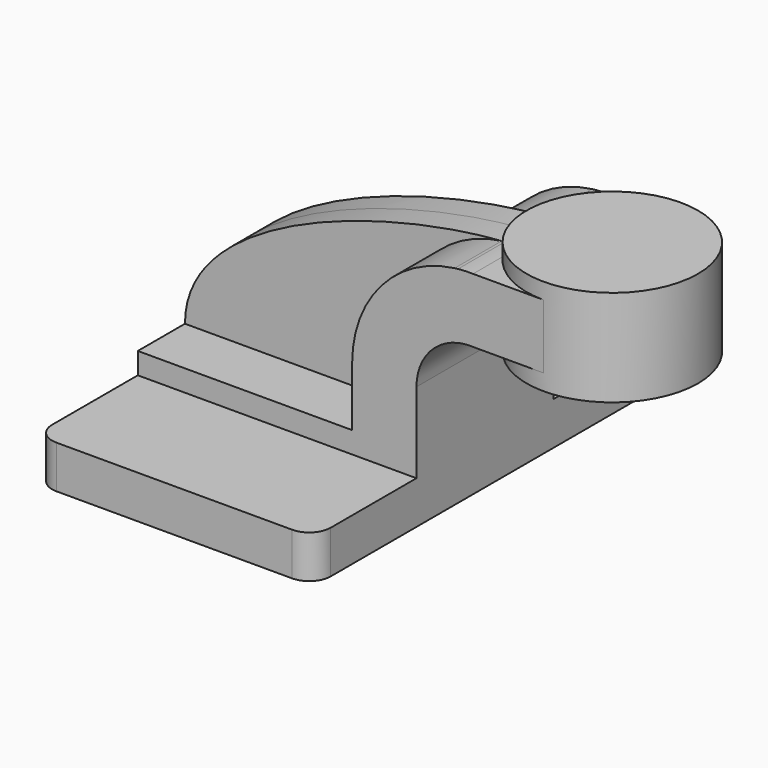
from build123d import *

# Parameters (mm, degrees)
F0_W     = 82.55
F0_H     = 12.7
F1_DEPTH = 63.5
F2_DEPTH = 25.4
F3_DEPTH = 7.9375
F5_R     = 6.35


with BuildPart() as f1:
    # F0 (on Front) → F1 (new body, symmetric)
    with BuildSketch(Plane.XZ):
        with Locations((0, -3.175)):
            Rectangle(F0_W, F0_H)
    extrude(amount=F1_DEPTH, both=True)

    # F0 (on Front) → F2 (join, symmetric)
    with BuildSketch(Plane.XZ):
        with Locations((0, -3.175)):
            Rectangle(F0_W, F0_H)
        with BuildLine():
            ThreePointArc((53.577404361, 61.7532924078), (53.0857792806, 61.6992166922), (52.5949692711, 61.6381844286))
            add(Edge.make_bspline(
                [(52.5949692711, 61.6381844286), (52.9244758312, 61.6627898631), (53.2519761831, 61.6860233314), (53.577404361, 61.7078821692)],
                knots=[106.6137732969, 106.6137732969, 106.6137732969, 106.6137732969, 107.6063471029, 107.6063471029, 107.6063471029, 107.6063471029], degree=3))
            Line((53.577404361, 61.7078821692), (53.577404361, 61.7532924078))
        make_face()
        Polygon((22.225, 9.525), (-41.275, 9.525), (-41.275, 3.175), (41.275, 3.175), (41.275, 9.525), align=None)
        with BuildLine():
            ThreePointArc((58.0383306755, 61.9252), (55.8051179778, 61.9105955677), (53.577404361, 61.7532924078))
            Line((53.577404361, 61.7532924078), (53.577404361, 61.7078821692))
            add(Edge.make_bspline(
                [(53.577404361, 61.7078821692), (55.1128174226, 61.8110150488), (56.602102301, 61.8835475984), (58.0383306755, 61.9252)],
                knots=[107.6063471029, 107.6063471029, 107.6063471029, 107.6063471029, 112.2894412218, 112.2894412218, 112.2894412218, 112.2894412218], degree=3))
        make_face()
        with BuildLine():
            Line((22.225, 27.0114993424), (22.225, 9.525))
            Line((22.225, 9.525), (41.275, 9.525))
            Line((41.275, 9.525), (41.275, 27.0114993424))
            ThreePointArc((41.275, 27.0114993424), (44.7256171025, 36.8933177284), (53.577404361, 42.4792782844))
            Line((53.577404361, 42.4792782844), (53.577404361, 61.7078821692))
            add(Edge.make_bspline(
                [(52.5949692711, 61.6381844286), (52.9244758312, 61.6627898631), (53.2519761831, 61.6860233314), (53.577404361, 61.7078821692)],
                knots=[106.6137732969, 106.6137732969, 106.6137732969, 106.6137732969, 107.6063471029, 107.6063471029, 107.6063471029, 107.6063471029], degree=3))
            ThreePointArc((52.5949692711, 61.6381844286), (30.8931906622, 50.0405155696), (22.225, 27.0114993424))
        make_face()
        with BuildLine():
            add(Edge.make_bspline(
                [(53.577404361, 61.7078821692), (55.1128174226, 61.8110150488), (56.602102301, 61.8835475984), (58.0383306755, 61.9252)],
                knots=[107.6063471029, 107.6063471029, 107.6063471029, 107.6063471029, 112.2894412218, 112.2894412218, 112.2894412218, 112.2894412218], degree=3))
            Line((53.577404361, 61.7078821692), (53.577404361, 42.4792782844))
            ThreePointArc((53.577404361, 42.4792782844), (55.6500090256, 42.8154751737), (57.7488542769, 42.8752))
            Line((57.7488542769, 42.8752), (78.977404361, 42.8752))
            Line((78.977404361, 42.8752), (78.977404361, 61.9252))
            Line((78.977404361, 61.9252), (58.0383306755, 61.9252))
        make_face()
    extrude(amount=F2_DEPTH, both=True)

    # F0 (on Front) → F3 (join, symmetric)
    with BuildSketch(Plane.XZ):
        with Locations((0, -3.175)):
            Rectangle(F0_W, F0_H)
        with BuildLine():
            add(Edge.make_bspline(
                [(-41.275, 9.525), (-41.3366305688, 40.5237040654), (17.2021979841, 58.9952794856), (52.5949692711, 61.6381844286)],
                knots=[0, 0, 0, 0, 106.6137732969, 106.6137732969, 106.6137732969, 106.6137732969], degree=3))
            Line((-41.275, 9.525), (22.225, 9.525))
            Line((22.225, 9.525), (22.225, 27.0114993424))
            ThreePointArc((22.225, 27.0114993424), (30.8931906622, 50.0405155696), (52.5949692711, 61.6381844286))
        make_face()
        with BuildLine():
            ThreePointArc((53.577404361, 61.7532924078), (53.0857792806, 61.6992166922), (52.5949692711, 61.6381844286))
            add(Edge.make_bspline(
                [(52.5949692711, 61.6381844286), (52.9244758312, 61.6627898631), (53.2519761831, 61.6860233314), (53.577404361, 61.7078821692)],
                knots=[106.6137732969, 106.6137732969, 106.6137732969, 106.6137732969, 107.6063471029, 107.6063471029, 107.6063471029, 107.6063471029], degree=3))
            Line((53.577404361, 61.7078821692), (53.577404361, 61.7532924078))
        make_face()
        Polygon((22.225, 9.525), (-41.275, 9.525), (-41.275, 3.175), (41.275, 3.175), (41.275, 9.525), align=None)
        with BuildLine():
            ThreePointArc((58.0383306755, 61.9252), (55.8051179778, 61.9105955677), (53.577404361, 61.7532924078))
            Line((53.577404361, 61.7532924078), (53.577404361, 61.7078821692))
            add(Edge.make_bspline(
                [(53.577404361, 61.7078821692), (55.1128174226, 61.8110150488), (56.602102301, 61.8835475984), (58.0383306755, 61.9252)],
                knots=[107.6063471029, 107.6063471029, 107.6063471029, 107.6063471029, 112.2894412218, 112.2894412218, 112.2894412218, 112.2894412218], degree=3))
        make_face()
        with BuildLine():
            Line((22.225, 27.0114993424), (22.225, 9.525))
            Line((22.225, 9.525), (41.275, 9.525))
            Line((41.275, 9.525), (41.275, 27.0114993424))
            ThreePointArc((41.275, 27.0114993424), (44.7256171025, 36.8933177284), (53.577404361, 42.4792782844))
            Line((53.577404361, 42.4792782844), (53.577404361, 61.7078821692))
            add(Edge.make_bspline(
                [(52.5949692711, 61.6381844286), (52.9244758312, 61.6627898631), (53.2519761831, 61.6860233314), (53.577404361, 61.7078821692)],
                knots=[106.6137732969, 106.6137732969, 106.6137732969, 106.6137732969, 107.6063471029, 107.6063471029, 107.6063471029, 107.6063471029], degree=3))
            ThreePointArc((52.5949692711, 61.6381844286), (30.8931906622, 50.0405155696), (22.225, 27.0114993424))
        make_face()
        with BuildLine():
            add(Edge.make_bspline(
                [(53.577404361, 61.7078821692), (55.1128174226, 61.8110150488), (56.602102301, 61.8835475984), (58.0383306755, 61.9252)],
                knots=[107.6063471029, 107.6063471029, 107.6063471029, 107.6063471029, 112.2894412218, 112.2894412218, 112.2894412218, 112.2894412218], degree=3))
            Line((53.577404361, 61.7078821692), (53.577404361, 42.4792782844))
            ThreePointArc((53.577404361, 42.4792782844), (55.6500090256, 42.8154751737), (57.7488542769, 42.8752))
            Line((57.7488542769, 42.8752), (78.977404361, 42.8752))
            Line((78.977404361, 42.8752), (78.977404361, 61.9252))
            Line((78.977404361, 61.9252), (58.0383306755, 61.9252))
        make_face()
    extrude(amount=F3_DEPTH, both=True)

    # F0 (on Front) → F4 (revolve)
    with BuildSketch(Plane.XZ):
        Polygon((104.377404361, 66.675), (78.977404361, 66.675), (78.977404361, 61.9252), (78.977404361, 42.8752), (78.977404361, 38.1), (104.377404361, 38.1), align=None)
    revolve(axis=Axis((78.977404361, 0, 52.3875), (0, 0, 1)))

    # F5
    f5_edges = [f1.edges().sort_by_distance(p)[0] for p in [
        (41.275, -63.5, -3.175),
        (-41.275, -63.5, -3.175),
        (41.275, 63.5, -3.175),
        (-41.275, 63.5, -3.175),
    ]]
    fillet(f5_edges, radius=F5_R)


solid = f1.part
